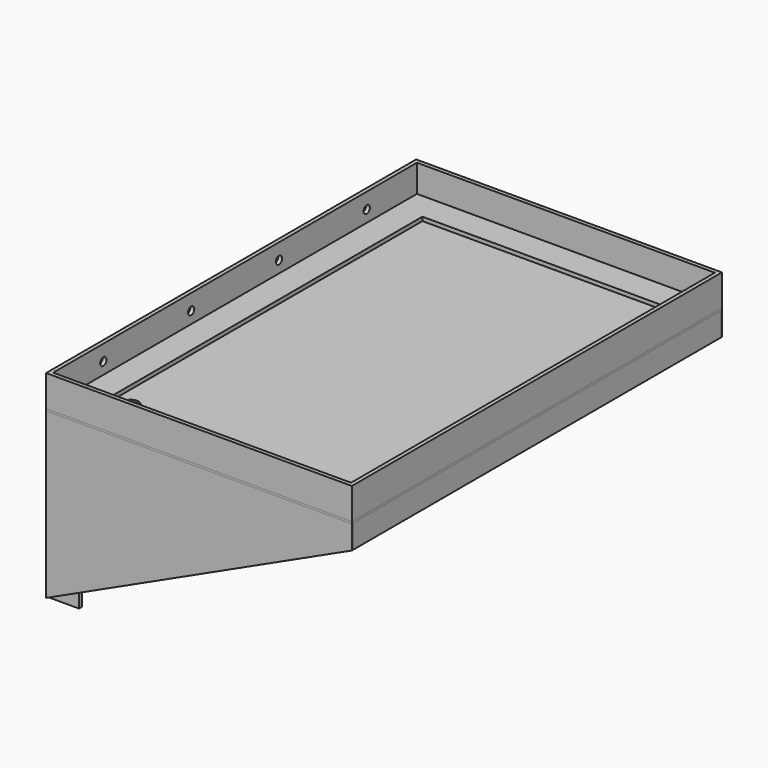
from build123d import *

# Parameters (mm, degrees)
F0_W      = 495.3
F0_H      = 742.95
F0_W_2    = 419.1
F0_H_2    = 666.75
F1_DEPTH  = 38.1
F4_DEPTH  = 3.175
F5_DEPTH  = 3.175
F6_W      = 50.8
F6_H      = 228.6
F7_DEPTH  = 6.35
F8_W      = 6.35
F8_H      = 228.6
F9_DEPTH  = 44.45
F10_W     = 6.35
F10_H     = 228.6
F11_DEPTH = 44.45
F12_W     = 495.3
F12_H     = 749.3
F12_R     = 12.7
F13_DEPTH = 3.175
F14_W     = 495.3
F14_H     = 749.3
F14_W_2   = 393.7
F14_H_2   = 647.7
F15_DEPTH = 6.35
F16_W     = 495.3
F16_H     = 749.3
F16_W_2   = 482.5999817848
F16_H_2   = 736.5999817848
F17_DEPTH = 44.45
F18_R     = 6.35
F19_DEPTH = 25.4


with BuildPart() as f1:
    # F0 (on Top) → F1 (new body)
    with BuildSketch(Plane.XY):
        Rectangle(F0_W, F0_H)
        Rectangle(F0_W_2, F0_H_2, mode=Mode.SUBTRACT)
    extrude(amount=F1_DEPTH)


with BuildPart() as f4:
    # F2 (on face) → F4 (new body)
    with BuildSketch(Plane.XZ.offset(371.475)):
        Polygon((247.65, 0), (247.65, 38.1), (-247.65, 38.1), (-247.65, 0), (-247.65, -228.6), align=None)
    extrude(amount=F4_DEPTH)


with BuildPart() as f5:
    # F3 (on face) → F5 (new body)
    with BuildSketch(Plane(origin=(0, 371.475, 0), x_dir=(-1, 0, 0), z_dir=(0, 1, 0))):
        Polygon((-247.65, 38.1), (-247.65, 0), (247.65, -228.6), (247.65, 0), (247.65, 38.1), align=None)
    extrude(amount=F5_DEPTH)


with BuildPart() as f7:
    # F6 (on face) → F7 (new body)
    with BuildSketch(Plane(origin=(-247.65, 0, 0), x_dir=(0, -1, 0), z_dir=(-1, 0, 0))):
        with Locations((346.075, -114.3)):
            Rectangle(F6_W, F6_H)
    extrude(amount=-F7_DEPTH)

    # F8 (on face) → F9 (join)
    with BuildSketch(Plane.YZ.offset(-241.3)):
        with Locations((-368.3, -114.3)):
            Rectangle(F8_W, F8_H)
    extrude(amount=F9_DEPTH)


with BuildPart() as f7b:
    # F6 (on face) → F7, piece 2 (new body)
    with BuildSketch(Plane(origin=(-247.65, 0, 0), x_dir=(0, -1, 0), z_dir=(-1, 0, 0))):
        with Locations((-346.075, -114.3)):
            Rectangle(F6_W, F6_H)
    extrude(amount=-F7_DEPTH)

    # F10 (on face) → F11 (join)
    with BuildSketch(Plane.YZ.offset(-241.3)):
        with Locations((368.3, -114.3)):
            Rectangle(F10_W, F10_H)
    extrude(amount=F11_DEPTH)


with BuildPart() as f13:
    # F12 (on face) → F13 (new body)
    with BuildSketch(Plane.XY.offset(38.1)):
        Rectangle(F12_W, F12_H)
        with Locations((-171.45, -298.45)):
            Circle(F12_R, mode=Mode.SUBTRACT)
    extrude(amount=F13_DEPTH)


with BuildPart() as f15:
    # F14 (on face) → F15 (new body)
    with BuildSketch(Plane.XY.offset(41.275)):
        Rectangle(F14_W, F14_H)
        Rectangle(F14_W_2, F14_H_2, mode=Mode.SUBTRACT)
    extrude(amount=F15_DEPTH)

    # F16 (on face) → F17 (join)
    with BuildSketch(Plane.XY.offset(47.625)):
        Rectangle(F16_W, F16_H)
        Rectangle(F16_W_2, F16_H_2, mode=Mode.SUBTRACT)
    extrude(amount=F17_DEPTH)


with BuildPart() as f19_tool:
    # F18 (on face) → F19 (new body)
    with BuildSketch(Plane(origin=(-247.65, 0, 0), x_dir=(0, -1, 0), z_dir=(-1, 0, 0))):
        with Locations((-266.7, 66.675)):
            Circle(F18_R)
        with Locations((-88.9, 66.675)):
            Circle(F18_R)
        with Locations((88.9, 66.675)):
            Circle(F18_R)
        with Locations((266.7, 66.675)):
            Circle(F18_R)
        with Locations((-346.075, -38.1)):
            Circle(F18_R)
        with Locations((-346.075, -190.5)):
            Circle(F18_R)
        with Locations((346.075, -38.1)):
            Circle(F18_R)
        with Locations((346.075, -190.5)):
            Circle(F18_R)
    extrude(amount=-F19_DEPTH)


with BuildPart() as f7_1:
    add(f7.part)

    # F19: cut by f19_tool
    add(f19_tool.part, mode=Mode.SUBTRACT)


with BuildPart() as f7b_1:
    add(f7b.part)

    # F19: cut by f19_tool
    add(f19_tool.part, mode=Mode.SUBTRACT)


with BuildPart() as f15_1:
    add(f15.part)

    # F19: cut by f19_tool
    add(f19_tool.part, mode=Mode.SUBTRACT)


solid = Compound([f1.part, f4.part, f5.part, f13.part, f7_1.part, f7b_1.part, f15_1.part])
